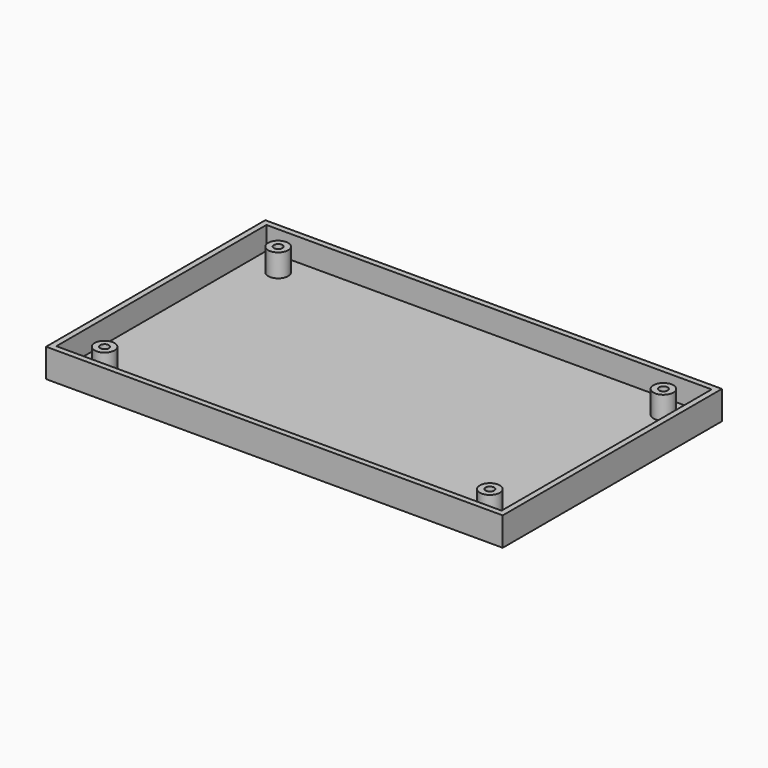
from build123d import *

# Parameters (mm, degrees)
F0_W     = 160
F0_H     = 96
F0_W_2   = 143
F0_H_2   = 84
F0_R     = 1.5
F1_DEPTH = 10
F2_T     = -2


with BuildPart() as f1:
    # F0 (on Top) → F1 (new body)
    with BuildSketch(Plane.XY):
        Rectangle(F0_W, F0_H)
        Rectangle(F0_W_2, F0_H_2, mode=Mode.SUBTRACT)
        Rectangle(F0_W_2, F0_H_2)
        with Locations((-67.5, -38)):
            Circle(F0_R, mode=Mode.SUBTRACT)
        with Locations((67.5, -38)):
            Circle(F0_R, mode=Mode.SUBTRACT)
        with Locations((-67.5, 38)):
            Circle(F0_R, mode=Mode.SUBTRACT)
        with Locations((67.5, 38)):
            Circle(F0_R, mode=Mode.SUBTRACT)
        Rectangle(F0_W_2, F0_H_2)
        with Locations((-67.5, -38)):
            Circle(F0_R, mode=Mode.SUBTRACT)
        with Locations((67.5, -38)):
            Circle(F0_R, mode=Mode.SUBTRACT)
        with Locations((-67.5, 38)):
            Circle(F0_R, mode=Mode.SUBTRACT)
        with Locations((67.5, 38)):
            Circle(F0_R, mode=Mode.SUBTRACT)
        Rectangle(F0_W_2, F0_H_2)
        with Locations((-67.5, -38)):
            Circle(F0_R, mode=Mode.SUBTRACT)
        with Locations((67.5, -38)):
            Circle(F0_R, mode=Mode.SUBTRACT)
        with Locations((-67.5, 38)):
            Circle(F0_R, mode=Mode.SUBTRACT)
        with Locations((67.5, 38)):
            Circle(F0_R, mode=Mode.SUBTRACT)
        Rectangle(F0_W_2, F0_H_2)
        with Locations((-67.5, -38)):
            Circle(F0_R, mode=Mode.SUBTRACT)
        with Locations((67.5, -38)):
            Circle(F0_R, mode=Mode.SUBTRACT)
        with Locations((-67.5, 38)):
            Circle(F0_R, mode=Mode.SUBTRACT)
        with Locations((67.5, 38)):
            Circle(F0_R, mode=Mode.SUBTRACT)
        Rectangle(F0_W_2, F0_H_2)
        with Locations((-67.5, -38)):
            Circle(F0_R, mode=Mode.SUBTRACT)
        with Locations((67.5, -38)):
            Circle(F0_R, mode=Mode.SUBTRACT)
        with Locations((-67.5, 38)):
            Circle(F0_R, mode=Mode.SUBTRACT)
        with Locations((67.5, 38)):
            Circle(F0_R, mode=Mode.SUBTRACT)
    extrude(amount=F1_DEPTH)

    # F2
    f2_openings = [f1.faces().sort_by_distance(p)[0] for p in [
        (0, 0, 10),
    ]]
    offset(amount=F2_T, openings=f2_openings)


solid = f1.part
